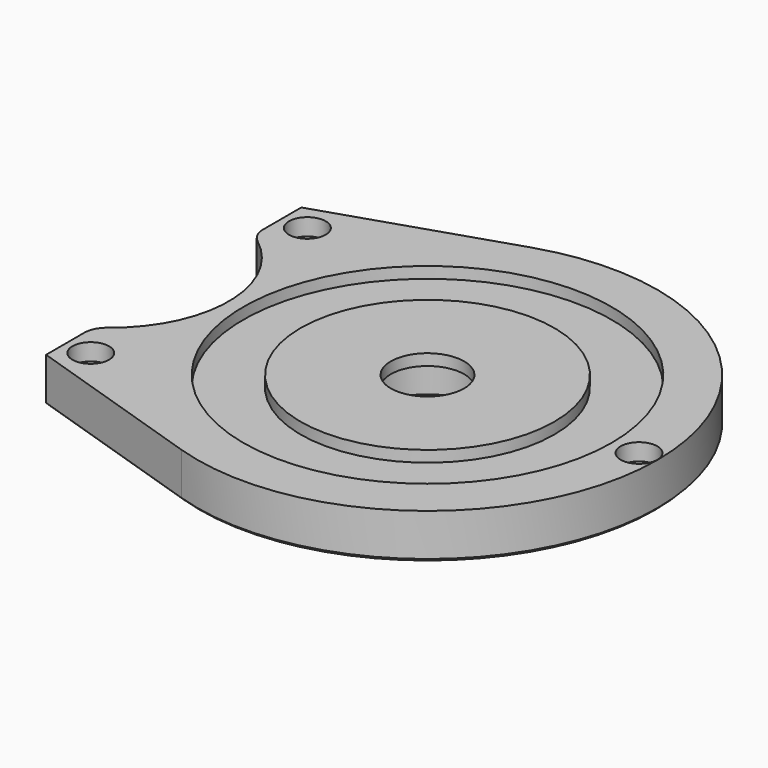
from build123d import *

# Parameters (mm, degrees)
F0_R            = 40.8
F1_DEPTH        = 8
F4_R            = 32.65
F4_R_2          = 22.5
F5_DEPTH        = 2
F6_W            = 4.8
F6_H            = 38.4
F7_DEPTH        = 8.001
F9_DEPTH        = 8
F10_R           = 21
F11_DEPTH       = 8.001
F12_R           = 4
F14_D           = 3.3
F14_CBORE_D     = 6.5
F14_CBORE_DEPTH = 3
F15_SIZE        = 0.5


with BuildPart() as f1:
    # F0 (on Top) → F1 (new body)
    with BuildSketch(Plane.XY):
        Circle(F0_R)
    extrude(amount=F1_DEPTH)

    # F2 (on Right) → F3 (revolve, cut)
    with BuildSketch(Plane.YZ):
        Polygon((0, 8), (0, 0), (8.6, 0), (8.6, 6), (6.5, 6), (6.5, 8), align=None)
    revolve(axis=Axis((0, 0, 10.7360328796), (0, 0, 1)), mode=Mode.SUBTRACT)

    # F4 (on face) → F5 (cut)
    with BuildSketch(Plane.XY.offset(8)):
        Circle(F4_R)
        Circle(F4_R_2, mode=Mode.SUBTRACT)
    extrude(amount=-F5_DEPTH, mode=Mode.SUBTRACT)

    # F6 (on Top) → F7 (cut, through all)
    with BuildSketch(Plane.XY):
        with Locations((-38.4, 0)):
            Rectangle(F6_W, F6_H)
    extrude(amount=F7_DEPTH, mode=Mode.SUBTRACT)

    # F8 (on Top) → F9 (join, through all)
    with BuildSketch(Plane.XY):
        with BuildLine():
            Line((-45, 28.2782724184), (-45, -28.2782724184))
            Line((-45, -28.2782724184), (-12.6078933705, -38.8031058648))
            ThreePointArc((-12.6078933705, -38.8031058648), (-26.2059585661, -31.2711965814), (-36, -19.2))
            Line((-36, -19.2), (-36, 19.2))
            ThreePointArc((-36, 19.2), (-26.2059585661, 31.2711965814), (-12.6078933705, 38.8031058648))
            Line((-12.6078933705, 38.8031058648), (-45, 28.2782724184))
        make_face()
    extrude(amount=F9_DEPTH)

    # F10 (on face) → F11 (cut, through all)
    with BuildSketch(Plane.XY.offset(8)):
        with Locations((-56.25, 0)):
            Circle(F10_R)
    extrude(amount=-F11_DEPTH, mode=Mode.SUBTRACT)

    # F12
    f12_edges = [f1.edges().sort_by_distance(p)[0] for p in [
        (-45, -17.732386, 4),
        (-45, 17.732386, 4),
    ]]
    fillet(f12_edges, radius=F12_R)

    # F14 (through all)
    with Locations(Plane.XY.offset(8)):
        with Locations((-40.5, 24), (-40.5, -24), (37.5, 0)):
            CounterBoreHole(F14_D / 2, F14_CBORE_D / 2, F14_CBORE_DEPTH)

    # F15
    f15_edges = [f1.edges().sort_by_distance(p)[0] for p in [
        (-45, 24.044154, 0),
        (-44.588872, 18.043683, 0),
        (-28.803947, 33.540689, 0),
        (-35.25, 0, 0),
        (40.8, 0, 0),
        (-44.588872, -18.043683, 0),
        (-28.803947, -33.540689, 0),
        (-45, -24.044154, 0),
        (-42.15, -24, 0),
        (-42.15, 24, 0),
        (0, -8.6, 0),
        (35.85, 0, 0),
    ]]
    chamfer(f15_edges, length=F15_SIZE)


solid = f1.part
